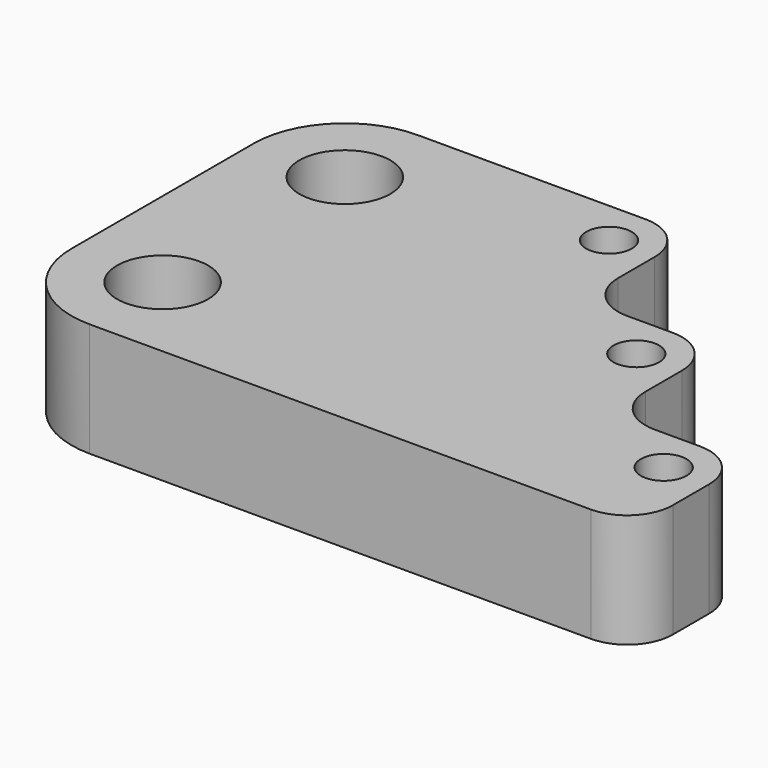
from build123d import *

# Parameters (mm, degrees)
F0_R     = 10
F0_R_2   = 5
F1_DEPTH = 25


with BuildPart() as f1:
    # F0 (on Top) → F1 (new body)
    with BuildSketch(Plane.XY):
        with BuildLine():
            ThreePointArc((-51.865766, -37.073966), (-46.007901, -51.216102), (-31.865766, -57.073966))
            Line((-31.865766, -57.073966), (78.134234, -57.073966))
            ThreePointArc((78.134234, -57.073966), (85.205302, -54.145034), (88.134234, -47.073966))
            Line((88.134234, -47.073966), (88.134234, -37.073966))
            ThreePointArc((88.134234, -37.073966), (85.205302, -30.002898), (78.134234, -27.073966))
            Line((78.134234, -27.073966), (68.134234, -27.073966))
            ThreePointArc((68.134234, -27.073966), (61.063167, -24.145034), (58.134234, -17.073966))
            Line((58.134234, -17.073966), (58.134234, -7.073966))
            ThreePointArc((58.134234, -7.073966), (55.205302, -0.002898), (48.134234, 2.926034))
            Line((48.134234, 2.926034), (38.134234, 2.926034))
            ThreePointArc((38.134234, 2.926034), (31.063167, 5.854966), (28.134234, 12.926034))
            Line((28.134234, 12.926034), (28.134234, 22.926034))
            ThreePointArc((28.134234, 22.926034), (25.205302, 29.997102), (18.134234, 32.926034))
            Line((18.134234, 32.926034), (-31.865766, 32.926034))
            ThreePointArc((-31.865766, 32.926034), (-46.007901, 27.06817), (-51.865766, 12.926034))
            Line((-51.865766, 12.926034), (-51.865766, -37.073966))
        make_face()
        with Locations((-31.865766, -37.073966)):
            Circle(F0_R, mode=Mode.SUBTRACT)
        with Locations((78.134234, -37.073966)):
            Circle(F0_R_2, mode=Mode.SUBTRACT)
        with Locations((-31.865766, 12.926034)):
            Circle(F0_R, mode=Mode.SUBTRACT)
        with Locations((48.134234, -7.073966)):
            Circle(F0_R_2, mode=Mode.SUBTRACT)
        with Locations((18.134234, 22.926034)):
            Circle(F0_R_2, mode=Mode.SUBTRACT)
    extrude(amount=F1_DEPTH)


solid = f1.part
